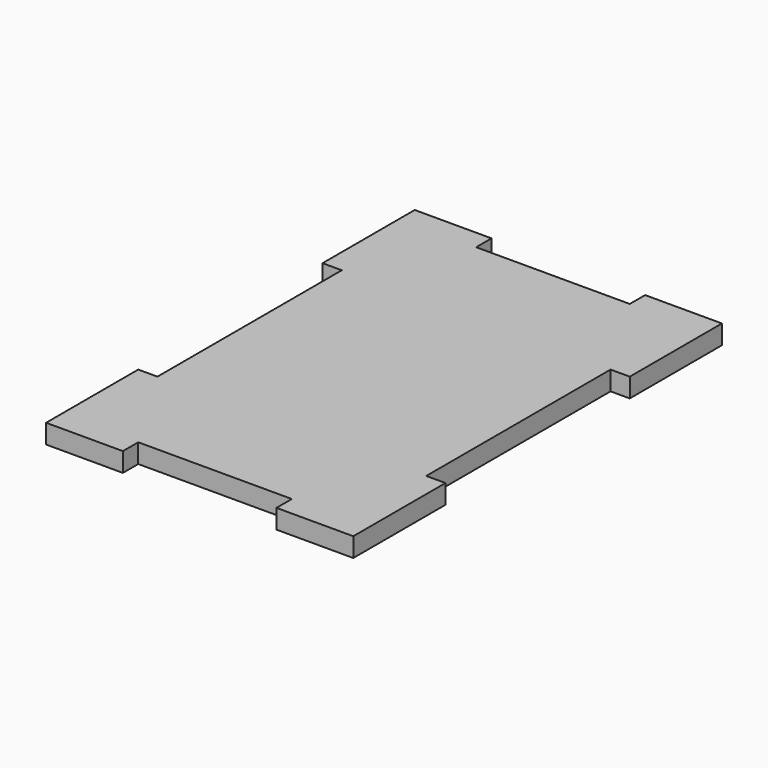
from build123d import *

# Parameters (mm, degrees)
F1_DEPTH = 3.175


with BuildPart() as f1:
    # F0 (on Top) → F1 (new body)
    with BuildSketch(Plane.XY):
        Polygon((25.355905, 17.898473), (25.355905, 36.948473), (12.655905, 36.948473), (12.655905, 33.773473), (-12.744095, 33.773473), (-12.744095, 36.948473), (-25.444095, 36.948473), (-25.444095, 17.898473), (-22.269095, 17.898473), (-22.269095, -20.201527), (-25.444095, -20.201527), (-25.444095, -39.251527), (-12.744095, -39.251527), (-12.744095, -36.076527), (12.655905, -36.076527), (12.655905, -39.251527), (25.355905, -39.251527), (25.355905, -20.201527), (22.180905, -20.201527), (22.180905, 17.898473), align=None)
    extrude(amount=F1_DEPTH)


solid = f1.part
